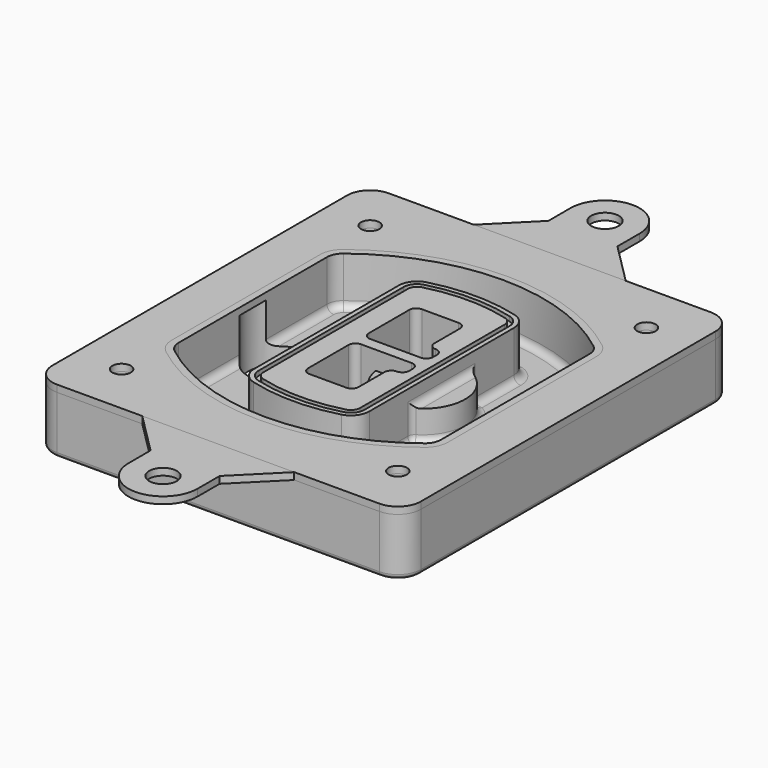
from build123d import *

# Parameters (mm, degrees)
F0_R      = 4
F1_DEPTH  = 25
F2_DEPTH  = 3
F3_DEPTH  = 18
F5_DEPTH  = 21
F6_DEPTH  = 2
F8_DEPTH  = 20
F9_DEPTH  = 16
F10_DEPTH = 25
F7_R      = 6
F7_R_2    = 4
F11_DEPTH = 6
F13_DEPTH = 9
F14_R     = 3
F15_R     = 2
F16_R     = 6
F17_DEPTH = 3
F16_R_2   = 4
F18_DEPTH = 3


with BuildPart() as f1:
    # F0 (on Top) → F1 (new body)
    with BuildSketch(Plane.XY):
        with BuildLine():
            ThreePointArc((-80, -80), (-77.0710678119, -87.0710678119), (-70, -90))
            Line((-70, -90), (70, -90))
            ThreePointArc((70, -90), (77.0710678119, -87.0710678119), (80, -80))
            Line((80, -80), (80, 80))
            ThreePointArc((80, 80), (77.0710678119, 87.0710678119), (70, 90))
            Line((70, 90), (-70, 90))
            ThreePointArc((-70, 90), (-77.0710678119, 87.0710678119), (-80, 80))
            Line((-80, 80), (-80, -80))
        make_face()
        with Locations((-60, -67.5)):
            Circle(F0_R, mode=Mode.SUBTRACT)
        with Locations((60, -67.5)):
            Circle(F0_R, mode=Mode.SUBTRACT)
        with Locations((-60, 67.5)):
            Circle(F0_R, mode=Mode.SUBTRACT)
        with BuildLine():
            ThreePointArc((-64, 40.2934422872), (-62.5820384798, 46.4328484224), (-58.6153846154, 51.3286200352))
            ThreePointArc((-58.6153846154, 51.3286200352), (0, 71.5), (58.6153846154, 51.3286200352))
            ThreePointArc((58.6153846154, 51.3286200352), (62.5820384798, 46.4328484224), (64, 40.2934422872))
            Line((64, 40.2934422872), (64, -40.2934422872))
            ThreePointArc((64, -40.2934422872), (62.5820384798, -46.4328484224), (58.6153846154, -51.3286200352))
            ThreePointArc((58.6153846154, -51.3286200352), (0, -71.5), (-58.6153846154, -51.3286200352))
            ThreePointArc((-58.6153846154, -51.3286200352), (-62.5820384798, -46.4328484224), (-64, -40.2934422872))
            Line((-64, -40.2934422872), (-64, 40.2934422872))
        make_face(mode=Mode.SUBTRACT)
        with Locations((60, 67.5)):
            Circle(F0_R, mode=Mode.SUBTRACT)
        with BuildLine():
            ThreePointArc((58.6153846154, 51.3286200352), (0, 71.5), (-58.6153846154, 51.3286200352))
            ThreePointArc((-58.6153846154, 51.3286200352), (-62.5820384798, 46.4328484224), (-64, 40.2934422872))
            Line((-64, 40.2934422872), (-64, -40.2934422872))
            ThreePointArc((-64, -40.2934422872), (-62.5820384798, -46.4328484224), (-58.6153846154, -51.3286200352))
            ThreePointArc((-58.6153846154, -51.3286200352), (0, -71.5), (58.6153846154, -51.3286200352))
            ThreePointArc((58.6153846154, -51.3286200352), (62.5820384798, -46.4328484224), (64, -40.2934422872))
            Line((64, -40.2934422872), (64, 40.2934422872))
            ThreePointArc((64, 40.2934422872), (62.5820384798, 46.4328484224), (58.6153846154, 51.3286200352))
        make_face()
        with BuildLine():
            Line((-60, -40.2934422872), (-60, 40.2934422872))
            ThreePointArc((-60, 40.2934422872), (-58.9871703427, 44.6787323838), (-56.1538461538, 48.1757121072))
            ThreePointArc((-56.1538461538, 48.1757121072), (0, 67.5), (56.1538461538, 48.1757121072))
            ThreePointArc((56.1538461538, 48.1757121072), (58.9871703427, 44.6787323838), (60, 40.2934422872))
            Line((60, 40.2934422872), (60, -40.2934422872))
            ThreePointArc((60, -40.2934422872), (58.9871703427, -44.6787323838), (56.1538461538, -48.1757121072))
            ThreePointArc((56.1538461538, -48.1757121072), (0, -67.5), (-56.1538461538, -48.1757121072))
            ThreePointArc((-56.1538461538, -48.1757121072), (-58.9871703427, -44.6787323838), (-60, -40.2934422872))
        make_face(mode=Mode.SUBTRACT)
        with BuildLine():
            ThreePointArc((-56.1538461538, 48.1757121072), (-58.9871703427, 44.6787323838), (-60, 40.2934422872))
            Line((-60, 40.2934422872), (-60, -40.2934422872))
            ThreePointArc((-60, -40.2934422872), (-58.9871703427, -44.6787323838), (-56.1538461538, -48.1757121072))
            ThreePointArc((-56.1538461538, -48.1757121072), (0, -67.5), (56.1538461538, -48.1757121072))
            ThreePointArc((56.1538461538, -48.1757121072), (58.9871703427, -44.6787323838), (60, -40.2934422872))
            Line((60, -40.2934422872), (60, 40.2934422872))
            ThreePointArc((60, 40.2934422872), (58.9871703427, 44.6787323838), (56.1538461538, 48.1757121072))
            ThreePointArc((56.1538461538, 48.1757121072), (0, 67.5), (-56.1538461538, 48.1757121072))
        make_face()
        with BuildLine():
            ThreePointArc((54.3076923077, 45.8110311612), (56.2910192399, 43.3631453548), (57, 40.2934422872))
            Line((57, 40.2934422872), (57, -40.2934422872))
            ThreePointArc((57, -40.2934422872), (56.2910192399, -43.3631453548), (54.3076923077, -45.8110311612))
            ThreePointArc((54.3076923077, -45.8110311612), (0, -64.5), (-54.3076923077, -45.8110311612))
            ThreePointArc((-54.3076923077, -45.8110311612), (-56.2910192399, -43.3631453548), (-57, -40.2934422872))
            Line((-57, -40.2934422872), (-57, 40.2934422872))
            ThreePointArc((-57, 40.2934422872), (-56.2910192399, 43.3631453548), (-54.3076923077, 45.8110311612))
            ThreePointArc((-54.3076923077, 45.8110311612), (0, 64.5), (54.3076923077, 45.8110311612))
        make_face(mode=Mode.SUBTRACT)
        with BuildLine():
            Line((57, -40.2934422872), (57, 40.2934422872))
            ThreePointArc((57, 40.2934422872), (56.2910192399, 43.3631453548), (54.3076923077, 45.8110311612))
            ThreePointArc((54.3076923077, 45.8110311612), (0, 64.5), (-54.3076923077, 45.8110311612))
            ThreePointArc((-54.3076923077, 45.8110311612), (-56.2910192399, 43.3631453548), (-57, 40.2934422872))
            Line((-57, 40.2934422872), (-57, -40.2934422872))
            ThreePointArc((-57, -40.2934422872), (-56.2910192399, -43.3631453548), (-54.3076923077, -45.8110311612))
            ThreePointArc((-54.3076923077, -45.8110311612), (0, -64.5), (54.3076923077, -45.8110311612))
            ThreePointArc((54.3076923077, -45.8110311612), (56.2910192399, -43.3631453548), (57, -40.2934422872))
        make_face()
    extrude(amount=-F1_DEPTH)

    # F0 (on Top) → F2 (join)
    with BuildSketch(Plane.XY):
        with BuildLine():
            ThreePointArc((-56.1538461538, 48.1757121072), (-58.9871703427, 44.6787323838), (-60, 40.2934422872))
            Line((-60, 40.2934422872), (-60, -40.2934422872))
            ThreePointArc((-60, -40.2934422872), (-58.9871703427, -44.6787323838), (-56.1538461538, -48.1757121072))
            ThreePointArc((-56.1538461538, -48.1757121072), (0, -67.5), (56.1538461538, -48.1757121072))
            ThreePointArc((56.1538461538, -48.1757121072), (58.9871703427, -44.6787323838), (60, -40.2934422872))
            Line((60, -40.2934422872), (60, 40.2934422872))
            ThreePointArc((60, 40.2934422872), (58.9871703427, 44.6787323838), (56.1538461538, 48.1757121072))
            ThreePointArc((56.1538461538, 48.1757121072), (0, 67.5), (-56.1538461538, 48.1757121072))
        make_face()
        with BuildLine():
            ThreePointArc((54.3076923077, 45.8110311612), (56.2910192399, 43.3631453548), (57, 40.2934422872))
            Line((57, 40.2934422872), (57, -40.2934422872))
            ThreePointArc((57, -40.2934422872), (56.2910192399, -43.3631453548), (54.3076923077, -45.8110311612))
            ThreePointArc((54.3076923077, -45.8110311612), (0, -64.5), (-54.3076923077, -45.8110311612))
            ThreePointArc((-54.3076923077, -45.8110311612), (-56.2910192399, -43.3631453548), (-57, -40.2934422872))
            Line((-57, -40.2934422872), (-57, 40.2934422872))
            ThreePointArc((-57, 40.2934422872), (-56.2910192399, 43.3631453548), (-54.3076923077, 45.8110311612))
            ThreePointArc((-54.3076923077, 45.8110311612), (0, 64.5), (54.3076923077, 45.8110311612))
        make_face(mode=Mode.SUBTRACT)
    extrude(amount=F2_DEPTH)

    # F0 (on Top) → F3 (cut)
    with BuildSketch(Plane.XY):
        with BuildLine():
            Line((57, -40.2934422872), (57, 40.2934422872))
            ThreePointArc((57, 40.2934422872), (56.2910192399, 43.3631453548), (54.3076923077, 45.8110311612))
            ThreePointArc((54.3076923077, 45.8110311612), (0, 64.5), (-54.3076923077, 45.8110311612))
            ThreePointArc((-54.3076923077, 45.8110311612), (-56.2910192399, 43.3631453548), (-57, 40.2934422872))
            Line((-57, 40.2934422872), (-57, -40.2934422872))
            ThreePointArc((-57, -40.2934422872), (-56.2910192399, -43.3631453548), (-54.3076923077, -45.8110311612))
            ThreePointArc((-54.3076923077, -45.8110311612), (0, -64.5), (54.3076923077, -45.8110311612))
            ThreePointArc((54.3076923077, -45.8110311612), (56.2910192399, -43.3631453548), (57, -40.2934422872))
        make_face()
    extrude(amount=-F3_DEPTH, mode=Mode.SUBTRACT)

    # F4 (on face) → F5 (join, through all)
    with BuildSketch(Plane.XY.offset(3)):
        with BuildLine():
            ThreePointArc((-25, -39.2465276821), (-23.3511545998, -44.1109737193), (-19.0842911877, -46.9702398883))
            ThreePointArc((-19.0842911877, -46.9702398883), (0, -49.5), (19.0842911877, -46.9702398883))
            ThreePointArc((19.0842911877, -46.9702398883), (23.3511545998, -44.1109737193), (25, -39.2465276821))
            Line((25, -39.2465276821), (25, 39.2465276821))
            ThreePointArc((25, 39.2465276821), (23.3511545998, 44.1109737193), (19.0842911877, 46.9702398883))
            ThreePointArc((19.0842911877, 46.9702398883), (0, 49.5), (-19.0842911877, 46.9702398883))
            ThreePointArc((-19.0842911877, 46.9702398883), (-23.3511545998, 44.1109737193), (-25, 39.2465276821))
            Line((-25, 39.2465276821), (-25, -39.2465276821))
        make_face()
        with BuildLine():
            ThreePointArc((18.5632183908, 45.0393118368), (21.7633659499, 42.89486221), (23, 39.2465276821))
            Line((23, 39.2465276821), (23, -39.2465276821))
            ThreePointArc((23, -39.2465276821), (21.7633659499, -42.89486221), (18.5632183908, -45.0393118368))
            ThreePointArc((18.5632183908, -45.0393118368), (0, -47.5), (-18.5632183908, -45.0393118368))
            ThreePointArc((-18.5632183908, -45.0393118368), (-21.7633659499, -42.89486221), (-23, -39.2465276821))
            Line((-23, -39.2465276821), (-23, 39.2465276821))
            ThreePointArc((-23, 39.2465276821), (-21.7633659499, 42.89486221), (-18.5632183908, 45.0393118368))
            ThreePointArc((-18.5632183908, 45.0393118368), (0, 47.5), (18.5632183908, 45.0393118368))
        make_face(mode=Mode.SUBTRACT)
        with BuildLine():
            Line((23, -39.2465276821), (23, 39.2465276821))
            ThreePointArc((23, 39.2465276821), (21.7633659499, 42.89486221), (18.5632183908, 45.0393118368))
            ThreePointArc((18.5632183908, 45.0393118368), (0, 47.5), (-18.5632183908, 45.0393118368))
            ThreePointArc((-18.5632183908, 45.0393118368), (-21.7633659499, 42.89486221), (-23, 39.2465276821))
            Line((-23, 39.2465276821), (-23, -39.2465276821))
            ThreePointArc((-23, -39.2465276821), (-21.7633659499, -42.89486221), (-18.5632183908, -45.0393118368))
            ThreePointArc((-18.5632183908, -45.0393118368), (0, -47.5), (18.5632183908, -45.0393118368))
            ThreePointArc((18.5632183908, -45.0393118368), (21.7633659499, -42.89486221), (23, -39.2465276821))
        make_face()
        with BuildLine():
            ThreePointArc((18.0421455939, 43.1083837852), (20.1755772999, 41.6787507007), (21, 39.2465276821))
            Line((21, 39.2465276821), (21, -39.2465276821))
            ThreePointArc((21, -39.2465276821), (20.1755772999, -41.6787507007), (18.0421455939, -43.1083837852))
            ThreePointArc((18.0421455939, -43.1083837852), (0, -45.5), (-18.0421455939, -43.1083837852))
            ThreePointArc((-18.0421455939, -43.1083837852), (-20.1755772999, -41.6787507007), (-21, -39.2465276821))
            Line((-21, -39.2465276821), (-21, 39.2465276821))
            ThreePointArc((-21, 39.2465276821), (-20.1755772999, 41.6787507007), (-18.0421455939, 43.1083837852))
            ThreePointArc((-18.0421455939, 43.1083837852), (0, 45.5), (18.0421455939, 43.1083837852))
        make_face(mode=Mode.SUBTRACT)
        with BuildLine():
            Line((21, -39.2465276821), (21, 39.2465276821))
            ThreePointArc((21, 39.2465276821), (20.1755772999, 41.6787507007), (18.0421455939, 43.1083837852))
            ThreePointArc((18.0421455939, 43.1083837852), (0, 45.5), (-18.0421455939, 43.1083837852))
            ThreePointArc((-18.0421455939, 43.1083837852), (-20.1755772999, 41.6787507007), (-21, 39.2465276821))
            Line((-21, 39.2465276821), (-21, -39.2465276821))
            ThreePointArc((-21, -39.2465276821), (-20.1755772999, -41.6787507007), (-18.0421455939, -43.1083837852))
            ThreePointArc((-18.0421455939, -43.1083837852), (0, -45.5), (18.0421455939, -43.1083837852))
            ThreePointArc((18.0421455939, -43.1083837852), (20.1755772999, -41.6787507007), (21, -39.2465276821))
        make_face()
        with BuildLine():
            Line((-8, -2.5), (14, -2.5))
            ThreePointArc((14, -2.5), (16.1213203436, -3.3786796564), (17, -5.5))
            Line((17, -5.5), (17, -7.5))
            ThreePointArc((17, -7.5), (16.1213203436, -9.6213203436), (14, -10.5))
            ThreePointArc((14, -10.5), (11.8786796564, -11.3786796564), (11, -13.5))
            Line((11, -13.5), (11, -27.5))
            ThreePointArc((11, -27.5), (10.1213203436, -29.6213203436), (8, -30.5))
            Line((8, -30.5), (-8, -30.5))
            ThreePointArc((-8, -30.5), (-10.1213203436, -29.6213203436), (-11, -27.5))
            Line((-11, -27.5), (-11, -5.5))
            ThreePointArc((-11, -5.5), (-10.1213203436, -3.3786796564), (-8, -2.5))
        make_face(mode=Mode.SUBTRACT)
        with BuildLine():
            ThreePointArc((-8, 2.5), (-10.1213203436, 3.3786796564), (-11, 5.5))
            Line((-11, 5.5), (-11, 27.5))
            ThreePointArc((-11, 27.5), (-10.1213203436, 29.6213203436), (-8, 30.5))
            Line((-8, 30.5), (8, 30.5))
            ThreePointArc((8, 30.5), (10.1213203436, 29.6213203436), (11, 27.5))
            Line((11, 27.5), (11, 13.5))
            ThreePointArc((11, 13.5), (11.8786796564, 11.3786796564), (14, 10.5))
            ThreePointArc((14, 10.5), (16.1213203436, 9.6213203436), (17, 7.5))
            Line((17, 7.5), (17, 5.5))
            ThreePointArc((17, 5.5), (16.1213203436, 3.3786796564), (14, 2.5))
            Line((14, 2.5), (-8, 2.5))
        make_face(mode=Mode.SUBTRACT)
    extrude(amount=-F5_DEPTH)

    # F4 (on face) → F6 (cut)
    with BuildSketch(Plane.XY.offset(3)):
        with BuildLine():
            Line((23, -39.2465276821), (23, 39.2465276821))
            ThreePointArc((23, 39.2465276821), (21.7633659499, 42.89486221), (18.5632183908, 45.0393118368))
            ThreePointArc((18.5632183908, 45.0393118368), (0, 47.5), (-18.5632183908, 45.0393118368))
            ThreePointArc((-18.5632183908, 45.0393118368), (-21.7633659499, 42.89486221), (-23, 39.2465276821))
            Line((-23, 39.2465276821), (-23, -39.2465276821))
            ThreePointArc((-23, -39.2465276821), (-21.7633659499, -42.89486221), (-18.5632183908, -45.0393118368))
            ThreePointArc((-18.5632183908, -45.0393118368), (0, -47.5), (18.5632183908, -45.0393118368))
            ThreePointArc((18.5632183908, -45.0393118368), (21.7633659499, -42.89486221), (23, -39.2465276821))
        make_face()
        with BuildLine():
            ThreePointArc((18.0421455939, 43.1083837852), (20.1755772999, 41.6787507007), (21, 39.2465276821))
            Line((21, 39.2465276821), (21, -39.2465276821))
            ThreePointArc((21, -39.2465276821), (20.1755772999, -41.6787507007), (18.0421455939, -43.1083837852))
            ThreePointArc((18.0421455939, -43.1083837852), (0, -45.5), (-18.0421455939, -43.1083837852))
            ThreePointArc((-18.0421455939, -43.1083837852), (-20.1755772999, -41.6787507007), (-21, -39.2465276821))
            Line((-21, -39.2465276821), (-21, 39.2465276821))
            ThreePointArc((-21, 39.2465276821), (-20.1755772999, 41.6787507007), (-18.0421455939, 43.1083837852))
            ThreePointArc((-18.0421455939, 43.1083837852), (0, 45.5), (18.0421455939, 43.1083837852))
        make_face(mode=Mode.SUBTRACT)
    extrude(amount=-F6_DEPTH, mode=Mode.SUBTRACT)

    # F7 (on face) → F8 (join)
    with BuildSketch(Plane(origin=(0, 0, -25), x_dir=(1, 0, 0), z_dir=(0, 0, -1))):
        with BuildLine():
            ThreePointArc((3.28842436, 0), (16.7567035675, 13.4682792075), (30.224982775, 0))
            Line((30.224982775, 0), (35.224982775, 0))
            ThreePointArc((35.224982775, 0), (16.7567035675, 18.4682792075), (-1.71157564, 0))
            Line((-1.71157564, 0), (3.28842436, 0))
        make_face()
        with BuildLine():
            Line((3.28842436, 0), (30.224982775, 0))
            ThreePointArc((30.224982775, 0), (16.7567035675, 13.4682792075), (3.28842436, 0))
        make_face()
        with BuildLine():
            ThreePointArc((3.28842436, 0), (16.7567035675, -13.4682792075), (30.224982775, 0))
            Line((30.224982775, 0), (3.28842436, 0))
        make_face()
        with BuildLine():
            Line((35.224982775, 0), (30.224982775, 0))
            ThreePointArc((30.224982775, 0), (16.7567035675, -13.4682792075), (3.28842436, 0))
            Line((3.28842436, 0), (-1.71157564, 0))
            ThreePointArc((-1.71157564, 0), (16.7567035675, -18.4682792075), (35.224982775, 0))
        make_face()
    extrude(amount=-F8_DEPTH)

    # F7 (on face) → F9 (cut)
    with BuildSketch(Plane(origin=(0, 0, -25), x_dir=(1, 0, 0), z_dir=(0, 0, -1))):
        with BuildLine():
            Line((3.28842436, 0), (30.224982775, 0))
            ThreePointArc((30.224982775, 0), (16.7567035675, 13.4682792075), (3.28842436, 0))
        make_face()
        with BuildLine():
            ThreePointArc((3.28842436, 0), (16.7567035675, -13.4682792075), (30.224982775, 0))
            Line((30.224982775, 0), (3.28842436, 0))
        make_face()
    extrude(amount=-F9_DEPTH, mode=Mode.SUBTRACT)

    # F7 (on face) → F10 (cut)
    with BuildSketch(Plane(origin=(0, 0, -25), x_dir=(1, 0, 0), z_dir=(0, 0, -1))):
        with BuildLine():
            Line((-59.0318229325, 0), (-32.0952645175, 0))
            ThreePointArc((-32.0952645175, 0), (-45.563543725, 13.4682792075), (-59.0318229325, 0))
        make_face()
        with BuildLine():
            ThreePointArc((-59.0318229325, 0), (-45.563543725, -13.4682792075), (-32.0952645175, 0))
            Line((-32.0952645175, 0), (-59.0318229325, 0))
        make_face()
    extrude(amount=-F10_DEPTH, mode=Mode.SUBTRACT)

    # F7 (on face) → F11 (cut)
    with BuildSketch(Plane(origin=(0, 0, -25), x_dir=(1, 0, 0), z_dir=(0, 0, -1))):
        with Locations((60, -67.5)):
            Circle(F7_R)
        with Locations((60, -67.5)):
            Circle(F7_R_2, mode=Mode.SUBTRACT)
        with Locations((60, -67.5)):
            Circle(F7_R)
        with Locations((60, -67.5)):
            Circle(F7_R_2, mode=Mode.SUBTRACT)
        with Locations((-60, -67.5)):
            Circle(F7_R)
        with Locations((-60, -67.5)):
            Circle(F7_R_2, mode=Mode.SUBTRACT)
        with Locations((-60, -67.5)):
            Circle(F7_R)
        with Locations((-60, -67.5)):
            Circle(F7_R_2, mode=Mode.SUBTRACT)
        with Locations((-60, 67.5)):
            Circle(F7_R)
        with Locations((-60, 67.5)):
            Circle(F7_R_2, mode=Mode.SUBTRACT)
        with Locations((-60, 67.5)):
            Circle(F7_R)
        with Locations((-60, 67.5)):
            Circle(F7_R_2, mode=Mode.SUBTRACT)
        with Locations((60, 67.5)):
            Circle(F7_R)
        with Locations((60, 67.5)):
            Circle(F7_R_2, mode=Mode.SUBTRACT)
        with Locations((60, 67.5)):
            Circle(F7_R)
        with Locations((60, 67.5)):
            Circle(F7_R_2, mode=Mode.SUBTRACT)
    extrude(amount=-F11_DEPTH, mode=Mode.SUBTRACT)

    # F12 (on face) → F13 (cut, through all)
    with BuildSketch(Plane(origin=(0, 0, -9), x_dir=(1, 0, 0), z_dir=(0, 0, -1))):
        with BuildLine():
            Line((11, 13.5), (11, 17.5481537753))
            ThreePointArc((11, 17.5481537753), (2.5696536419, 11.8239143813), (-1.5415842455, 2.5))
            Line((-1.5415842455, 2.5), (3.5224848595, 2.5))
            ThreePointArc((3.5224848595, 2.5), (6.1857188154, 8.3455872281), (11.2536447004, 12.2927168648))
            ThreePointArc((11.2536447004, 12.2927168648), (11.0640958889, 12.8831798879), (11, 13.5))
        make_face()
        with BuildLine():
            ThreePointArc((11.2536447004, -12.2927168648), (6.1857188154, -8.3455872281), (3.5224848595, -2.5))
            Line((3.5224848595, -2.5), (-1.5415842455, -2.5))
            ThreePointArc((-1.5415842455, -2.5), (2.5696536419, -11.8239143813), (11, -17.5481537753))
            Line((11, -17.5481537753), (11, -13.5))
            ThreePointArc((11, -13.5), (11.0640958889, -12.8831798879), (11.2536447004, -12.2927168648))
        make_face()
        with BuildLine():
            ThreePointArc((11.2536447004, 12.2927168648), (6.1857188154, 8.3455872281), (3.5224848595, 2.5))
            Line((3.5224848595, 2.5), (14, 2.5))
            ThreePointArc((14, 2.5), (16.1213203436, 3.3786796564), (17, 5.5))
            Line((17, 5.5), (17, 7.5))
            ThreePointArc((17, 7.5), (16.1213203436, 9.6213203436), (14, 10.5))
            ThreePointArc((14, 10.5), (12.3601599782, 10.9878446101), (11.2536447004, 12.2927168648))
        make_face()
        with BuildLine():
            Line((14, -2.5), (3.5224848595, -2.5))
            ThreePointArc((3.5224848595, -2.5), (6.1857188154, -8.3455872281), (11.2536447004, -12.2927168648))
            ThreePointArc((11.2536447004, -12.2927168648), (12.3601599782, -10.9878446101), (14, -10.5))
            ThreePointArc((14, -10.5), (16.1213203436, -9.6213203436), (17, -7.5))
            Line((17, -7.5), (17, -5.5))
            ThreePointArc((17, -5.5), (16.1213203436, -3.3786796564), (14, -2.5))
        make_face()
    extrude(amount=F13_DEPTH, mode=Mode.SUBTRACT)

    # F14
    f14_edges = [f1.edges().sort_by_distance(p)[0] for p in [
        (-57, -23.703476, -18),
        (-57, 23.703476, -18),
        (25, 0, -5),
        (25, 16.526506, -11.5),
        (25, -16.526506, -11.5),
        (25, -27.886517, -18),
        (35.224983, 0, -18),
    ]]
    fillet(f14_edges, radius=F14_R)

    # F15
    f15_edges = [f1.edges().sort_by_distance(p)[0] for p in [
        (0, -90, -25),
    ]]
    fillet(f15_edges, radius=F15_R)


with BuildPart() as f17:
    # F16 (on face) → F17 (new body, through all)
    with BuildSketch(Plane.XY):
        with BuildLine():
            Line((-15, 108), (-33, 90))
            Line((-33, 90), (33, 90))
            Line((33, 90), (15, 108))
            Line((15, 108), (15, 120))
            ThreePointArc((15, 120), (0, 135), (-15, 120))
            Line((-15, 120), (-15, 108))
        make_face()
        with Locations((0, 120)):
            Circle(F16_R, mode=Mode.SUBTRACT)
    extrude(amount=F17_DEPTH)


with BuildPart() as f17b:
    # F16 (on face) → F17, piece 2 (new body, through all)
    with BuildSketch(Plane.XY):
        with BuildLine():
            Line((33, -90), (-33, -90))
            Line((-33, -90), (-15, -108))
            Line((-15, -108), (-15, -120))
            ThreePointArc((-15, -120), (0, -135), (15, -120))
            Line((15, -120), (15, -108))
            Line((15, -108), (33, -90))
        make_face()
        with Locations((0, -120)):
            Circle(F16_R, mode=Mode.SUBTRACT)
    extrude(amount=F17_DEPTH)


with BuildPart() as f18:
    # F16 (on face) → F18 (new body, through all)
    with BuildSketch(Plane.XY):
        with BuildLine():
            Line((33, 90), (-33, 90))
            Line((-33, 90), (-70, 90))
            ThreePointArc((-70, 90), (-77.0710678119, 87.0710678119), (-80, 80))
            Line((-80, 80), (-80, -80))
            ThreePointArc((-80, -80), (-77.0710678119, -87.0710678119), (-70, -90))
            Line((-70, -90), (-33, -90))
            Line((-33, -90), (33, -90))
            Line((33, -90), (70, -90))
            ThreePointArc((70, -90), (77.0710678119, -87.0710678119), (80, -80))
            Line((80, -80), (80, 80))
            ThreePointArc((80, 80), (77.0710678119, 87.0710678119), (70, 90))
            Line((70, 90), (33, 90))
        make_face()
        with Locations((-60, -67.5)):
            Circle(F16_R_2, mode=Mode.SUBTRACT)
        with Locations((60, -67.5)):
            Circle(F16_R_2, mode=Mode.SUBTRACT)
        with Locations((-60, 67.5)):
            Circle(F16_R_2, mode=Mode.SUBTRACT)
        with BuildLine():
            ThreePointArc((-60, 40.2934422872), (-58.9871703427, 44.6787323838), (-56.1538461538, 48.1757121072))
            ThreePointArc((-56.1538461538, 48.1757121072), (0, 67.5), (56.1538461538, 48.1757121072))
            ThreePointArc((56.1538461538, 48.1757121072), (58.9871703427, 44.6787323838), (60, 40.2934422872))
            Line((60, 40.2934422872), (60, -40.2934422872))
            ThreePointArc((60, -40.2934422872), (58.9871703427, -44.6787323838), (56.1538461538, -48.1757121072))
            ThreePointArc((56.1538461538, -48.1757121072), (0, -67.5), (-56.1538461538, -48.1757121072))
            ThreePointArc((-56.1538461538, -48.1757121072), (-58.9871703427, -44.6787323838), (-60, -40.2934422872))
            Line((-60, -40.2934422872), (-60, 40.2934422872))
        make_face(mode=Mode.SUBTRACT)
        with Locations((60, 67.5)):
            Circle(F16_R_2, mode=Mode.SUBTRACT)
    extrude(amount=F18_DEPTH)


solid = Compound([f1.part, f17.part, f17b.part, f18.part])
